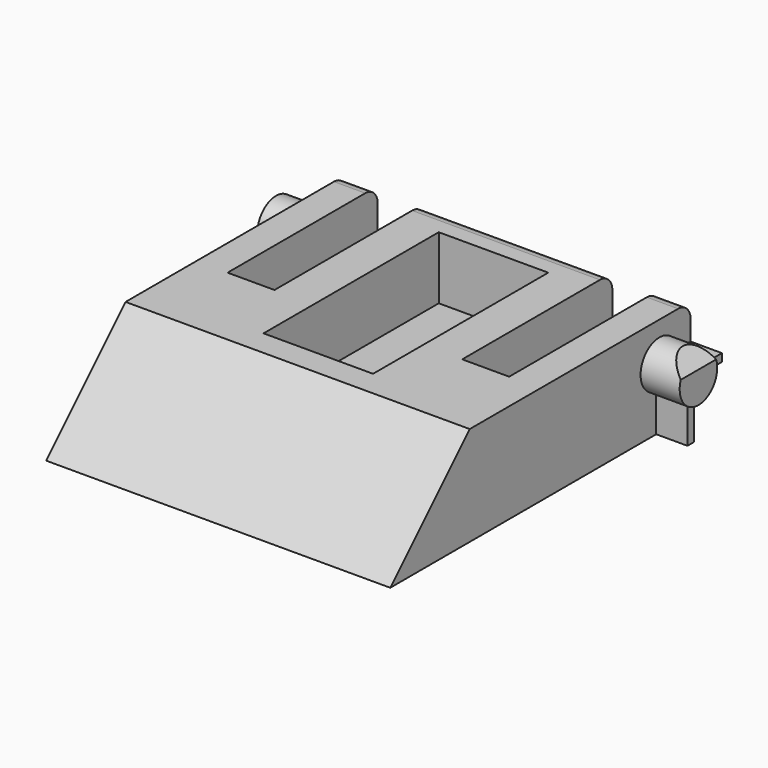
from build123d import *

# Parameters (mm, degrees)
PAD_DEPTH       = 11
SKETCH002_R     = 1.5
PAD001_DEPTH    = 2.5
POCKET_DEPTH    = 5
SKETCH004_W     = 2
SKETCH004_H     = 0.5
SKETCH004_W_2   = 0.5
SKETCH004_H_2   = 3.85
PAD002_DEPTH    = 2
SKETCH005_W     = 14
SKETCH005_H     = 7
SKETCH005_W_2   = 16
SKETCH005_H_2   = 3
POCKET001_DEPTH = 4


with BuildPart() as part:
    # Sketch001 → Pad (new body, symmetric)
    with BuildSketch(Plane.YZ):
        with BuildLine():
            Line((-12, 0), (12, 0))
            Line((12, 0), (12, 5.35))
            ThreePointArc((12, 5.35), (11.707107, 6.057107), (11, 6.35))
            Line((11, 6.35), (-5.65, 6.35))
            Line((-5.65, 6.35), (-12, 0))
        make_face()
    extrude(amount=PAD_DEPTH, both=True)

    # Sketch002 (on Face7 of Pad) → Pad001 (join)
    with BuildSketch(Plane.YZ.offset(11)):
        with Locations((9.5, 3.85)):
            Circle(SKETCH002_R)
    pad001 = extrude(amount=PAD001_DEPTH)

    # Sketch003 (on Face3 of Pad001) → Pocket (cut)
    with BuildSketch(Plane.ZX.offset(12)):
        Polygon((4.35, 13.5), (5.35, 13.5), (5.35, 12.5), align=None)
    pocket = extrude(amount=-POCKET_DEPTH, mode=Mode.SUBTRACT)

    # Sketch004 (on Face5 of Pocket) → Pad002 (join)
    with BuildSketch(Plane.YZ.offset(11)):
        with Locations((11, 3.85)):
            Rectangle(SKETCH004_W, SKETCH004_H)
        with Locations((9.5, 1.925)):
            Rectangle(SKETCH004_W_2, SKETCH004_H_2)
    pad002 = extrude(amount=PAD002_DEPTH)

    # Mirrored: Pad002, Pocket, Pad001 across YZ
    add(pad002.mirror(Plane.YZ))
    add(pocket.mirror(Plane.YZ), mode=Mode.SUBTRACT)
    add(pad001.mirror(Plane.YZ))

    # Sketch005 (on Face10 of Mirrored) → Pocket001 (cut)
    with BuildSketch(Plane(origin=(0, 0, 6.35), x_dir=(0, -1, 0), z_dir=(0, 0, 1))):
        with Locations((-3, 0)):
            Rectangle(SKETCH005_W, SKETCH005_H)
        with Locations((-8, 7.5)):
            Rectangle(SKETCH005_W_2, SKETCH005_H_2)
        with Locations((-8, -7.5)):
            Rectangle(SKETCH005_W_2, SKETCH005_H_2)
    extrude(amount=-POCKET001_DEPTH, mode=Mode.SUBTRACT)


solid = part.part
